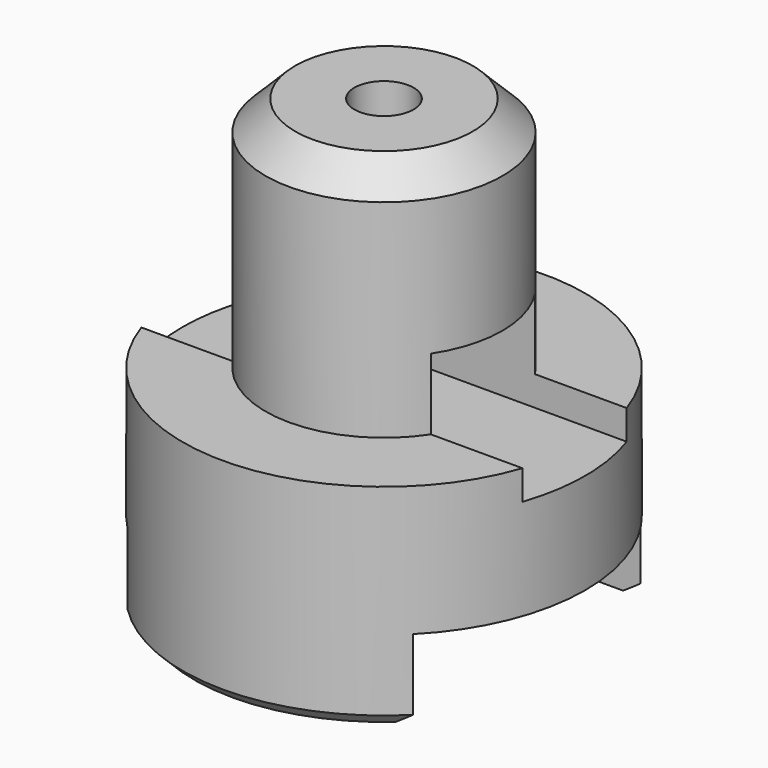
from build123d import *

# Parameters (mm, degrees)
F2_SIZE  = 20
F3_SIZE  = 50
F4_W     = 480
F4_H     = 140
F5_DEPTH = 340
F6_W     = 220
F6_H     = 170
F7_DEPTH = 340
F9_D     = 100


with BuildPart() as f1:
    # F0 (on Front) → F1 (revolve)
    with BuildSketch(Plane.XZ):
        Polygon((0, 0), (0, 760), (-200, 760), (-200, 360), (-340, 360), (-340, 0), align=None)
    revolve(axis=Axis((0, 0, 380), (0, 0, 1)))

    # F2
    f2_edges = [f1.edges().sort_by_distance(p)[0] for p in [
        (340, 0, 0),
    ]]
    chamfer(f2_edges, length=F2_SIZE)

    # F3
    f3_edges = [f1.edges().sort_by_distance(p)[0] for p in [
        (200, 0, 760),
    ]]
    chamfer(f3_edges, length=F3_SIZE)

    # F4 (on Right) → F5 (cut, symmetric)
    with BuildSketch(Plane.YZ):
        with Locations((0, 70)):
            Rectangle(F4_W, F4_H)
    extrude(amount=F5_DEPTH, both=True, mode=Mode.SUBTRACT)

    # F6 (on Right) → F7 (cut, symmetric)
    with BuildSketch(Plane.YZ):
        with Locations((0, 395)):
            Rectangle(F6_W, F6_H)
    extrude(amount=F7_DEPTH, both=True, mode=Mode.SUBTRACT)

    # F9 (through all)
    with Locations(Plane.XY.offset(760)):
        with Locations((0, 0)):
            Hole(F9_D / 2)


solid = f1.part
